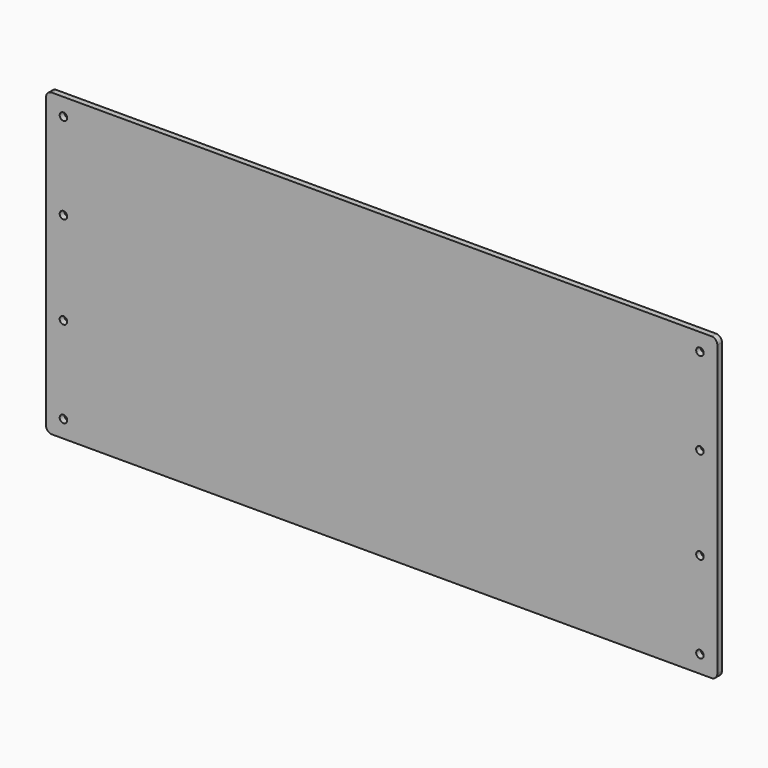
from build123d import *

# Parameters (mm, degrees)
F0_W     = 580
F0_H     = 260
F0_R     = 3.25
F1_DEPTH = 5
F2_R     = 5


with BuildPart() as f1:
    # F0 (on Front) → F1 (new body)
    with BuildSketch(Plane.XZ):
        with Locations((290, 130)):
            Rectangle(F0_W, F0_H)
        with Locations((15, 15)):
            Circle(F0_R, mode=Mode.SUBTRACT)
        with Locations((15, 90)):
            Circle(F0_R, mode=Mode.SUBTRACT)
        with Locations((565, 15)):
            Circle(F0_R, mode=Mode.SUBTRACT)
        with Locations((565, 90)):
            Circle(F0_R, mode=Mode.SUBTRACT)
        with Locations((15, 170)):
            Circle(F0_R, mode=Mode.SUBTRACT)
        with Locations((15, 245)):
            Circle(F0_R, mode=Mode.SUBTRACT)
        with Locations((565, 170)):
            Circle(F0_R, mode=Mode.SUBTRACT)
        with Locations((565, 245)):
            Circle(F0_R, mode=Mode.SUBTRACT)
        with Locations((290, 130)):
            Rectangle(F0_W, F0_H)
        with Locations((15, 15)):
            Circle(F0_R, mode=Mode.SUBTRACT)
        with Locations((15, 90)):
            Circle(F0_R, mode=Mode.SUBTRACT)
        with Locations((565, 15)):
            Circle(F0_R, mode=Mode.SUBTRACT)
        with Locations((565, 90)):
            Circle(F0_R, mode=Mode.SUBTRACT)
        with Locations((15, 170)):
            Circle(F0_R, mode=Mode.SUBTRACT)
        with Locations((15, 245)):
            Circle(F0_R, mode=Mode.SUBTRACT)
        with Locations((565, 170)):
            Circle(F0_R, mode=Mode.SUBTRACT)
        with Locations((565, 245)):
            Circle(F0_R, mode=Mode.SUBTRACT)
    extrude(amount=F1_DEPTH)

    # F2
    f2_edges = [f1.edges().sort_by_distance(p)[0] for p in [
        (0, -2.5, 260),
        (0, -2.5, 0),
        (580, -2.5, 260),
        (580, -2.5, 0),
    ]]
    fillet(f2_edges, radius=F2_R)


solid = f1.part
